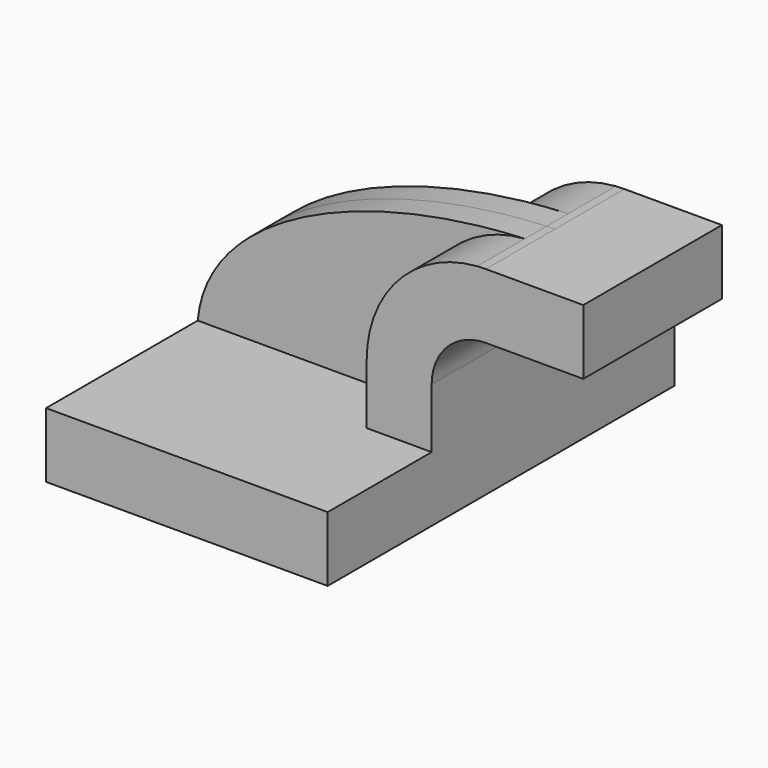
from build123d import *

# Parameters (mm, degrees)
F1_DEPTH = 63.5
F2_DEPTH = 25.4
F0_W     = 25.4
F0_H     = 19.05
F3_DEPTH = 25.4
F4_DEPTH = 7.9375


with BuildPart() as f1:
    # F0 (on Front) → F1 (new body, symmetric)
    with BuildSketch(Plane.XZ):
        Polygon((-41.275, 9.525), (-41.275, -9.525), (41.275, -9.525), (41.275, 9.525), (22.225, 9.525), align=None)
    extrude(amount=F1_DEPTH, both=True)

    # F0 (on Front) → F2 (join, symmetric)
    with BuildSketch(Plane.XZ):
        with BuildLine():
            Line((22.225, 9.525), (41.275, 9.525))
            Line((41.275, 9.525), (41.275, 27.0002))
            ThreePointArc((41.275, 27.0002), (45.92468, 38.22552), (57.15, 42.8752))
            Line((57.15, 42.8752), (60.325, 42.8752))
            Line((60.325, 42.8752), (60.325, 61.9252))
            Line((60.325, 61.9252), (57.15, 61.9252))
            add(Edge.make_bspline(
                [(54.618109, 61.833304), (55.461271, 61.86945), (56.305306, 61.900096), (57.15, 61.9252)],
                knots=[109.579831, 109.579831, 109.579831, 109.579831, 111.504536, 111.504536, 111.504536, 111.504536], degree=3))
            ThreePointArc((54.618109, 61.833304), (31.574798, 50.783906), (22.225, 27.0002))
            Line((22.225, 27.0002), (22.225, 9.525))
        make_face()
    extrude(amount=F2_DEPTH, both=True)

    # F0 (on Front) → F3 (join, symmetric)
    with BuildSketch(Plane.XZ):
        with Locations((73.025, 52.4002)):
            Rectangle(F0_W, F0_H)
    extrude(amount=F3_DEPTH, both=True)

    # F0 (on Front) → F4 (join, symmetric)
    with BuildSketch(Plane.XZ):
        with BuildLine():
            add(Edge.make_bspline(
                [(-41.275, 9.525), (-38.560078, 39.886518), (6.614079, 59.775381), (54.618109, 61.833304)],
                knots=[0, 0, 0, 0, 109.579831, 109.579831, 109.579831, 109.579831], degree=3))
            Line((-41.275, 9.525), (22.225, 9.525))
            Line((22.225, 9.525), (22.225, 27.0002))
            ThreePointArc((22.225, 27.0002), (31.574798, 50.783906), (54.618109, 61.833304))
        make_face()
    extrude(amount=F4_DEPTH, both=True)


solid = f1.part
